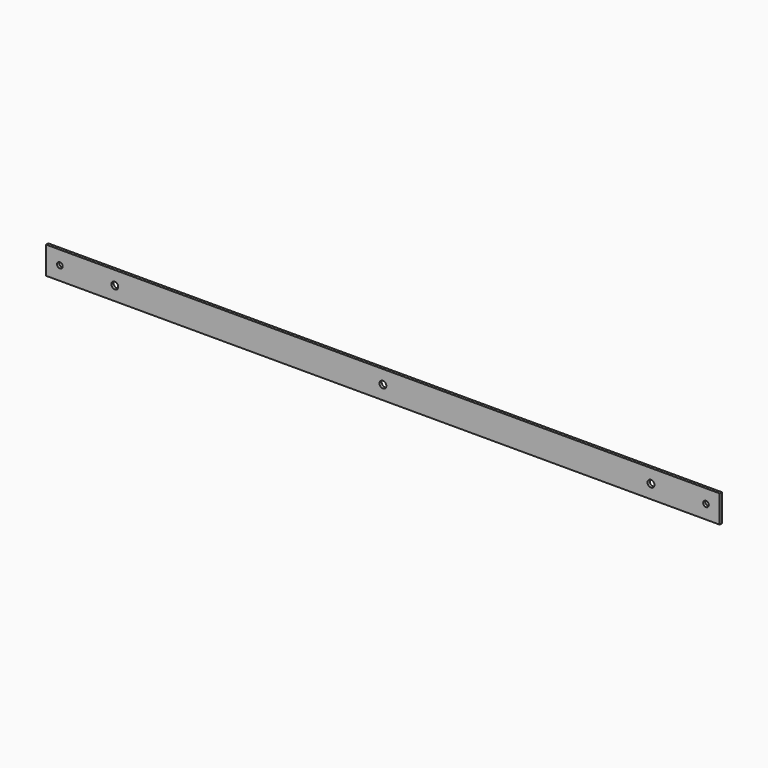
from build123d import *

# Parameters (mm, degrees)
F0_W     = 622.3
F0_H     = 25.4
F0_R     = 2.579688
F0_R_2   = 3.175
F1_DEPTH = 2.54


with BuildPart() as f1:
    # F0 (on Front) → F1 (new body)
    with BuildSketch(Plane.XZ):
        with Locations((0, -12.7)):
            Rectangle(F0_W, F0_H)
        with Locations((-298.45, -12.7)):
            Circle(F0_R, mode=Mode.SUBTRACT)
        with Locations((-247.65, -12.7)):
            Circle(F0_R_2, mode=Mode.SUBTRACT)
        with Locations((0, -12.7)):
            Circle(F0_R_2, mode=Mode.SUBTRACT)
        with Locations((247.65, -12.7)):
            Circle(F0_R_2, mode=Mode.SUBTRACT)
        with Locations((298.45, -12.7)):
            Circle(F0_R, mode=Mode.SUBTRACT)
    extrude(amount=F1_DEPTH)


solid = f1.part
